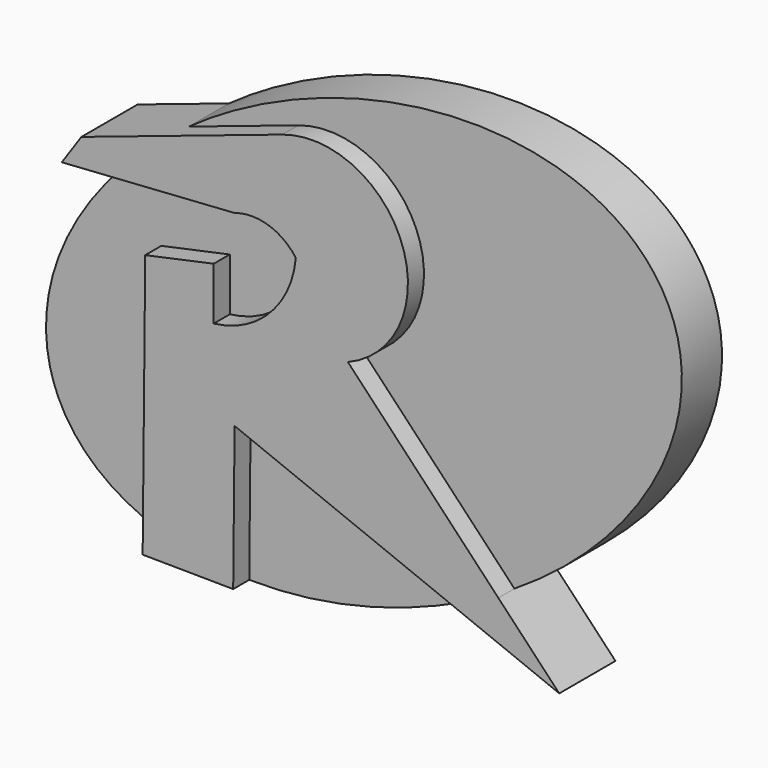
from build123d import *

# Parameters (mm, degrees)
F1_DEPTH = 17.78
F2_DEPTH = 12.7


with BuildPart() as f1:
    # F0 (on Front) → F1 (new body)
    with BuildSketch(Plane.XZ):
        with BuildLine():
            Line((-51.2901654862, 15.3534509714), (-51.9092994403, -48.0677951135))
            add(Edge.make_bspline(
                [(-51.9092994403, -48.0677951135), (-41.6057778166, -51.5776260761), (-29.0291292521, -51.8205253444)],
                knots=[0.5915359524, 0.5915359524, 0.5915359524, 0.9236195546, 0.9236195546, 0.9236195546], degree=2, weights=[1, 0.9862467018, 1]))
            Line((-29.0291292521, -51.8205253444), (-28.6730148599, -15.3417983256))
            Line((-28.6730148599, -15.3417983256), (27.6495488689, -37.8804578513))
            add(Edge.make_bspline(
                [(27.6495488689, -37.8804578513), (33.0317177029, -35.138839342), (38.080437783, -31.9595411631)],
                knots=[1.6434779546, 1.6434779546, 1.6434779546, 1.7856879064, 1.7856879064, 1.7856879064], degree=2, weights=[1, 0.9974731061, 1]))
            Line((38.080437783, -31.9595411631), (0, 8.218081668))
            ThreePointArc((0, 8.218081668), (13.7250963904, 38.9258024925), (-16.5912210941, 53.4950606525))
            Line((-16.5912210941, 53.4950606525), (-44.3439349242, 44.1877468728))
            add(Edge.make_bspline(
                [(-44.3439349242, 44.1877468728), (-53.5267323563, 37.6104182577), (-60.7439466231, 29.953758261)],
                knots=[5.017975378, 5.017975378, 5.017975378, 5.2898153889, 5.2898153889, 5.2898153889], degree=2, weights=[1, 0.990777088, 1]))
            Line((-60.7439466231, 29.953758261), (-28.6857560277, 32.0970378816))
            ThreePointArc((-28.6857560277, 32.0970378816), (-20.1155001777, 32.1703219773), (-13.1799420342, 27.1351765841))
            ThreePointArc((-13.1799420342, 27.1351765841), (-19.7589661895, 12.7367227479), (-33.957734704, 5.7371510193))
            Line((-33.957734704, 5.7371510193), (-33.957734704, 19.0721508116))
            Line((-33.957734704, 19.0721508116), (-51.2901654862, 15.3534509714))
        make_face()
        with BuildLine():
            Line((-72.4121555686, 29.1736694918), (-60.7439466231, 29.953758261))
            add(Edge.make_bspline(
                [(-44.3439349242, 44.1877468728), (-53.5267323563, 37.6104182577), (-60.7439466231, 29.953758261)],
                knots=[5.017975378, 5.017975378, 5.017975378, 5.2898153889, 5.2898153889, 5.2898153889], degree=2, weights=[1, 0.990777088, 1]))
            Line((-44.3439349242, 44.1877468728), (-67.4502924085, 36.4386625588))
            Line((-67.4502924085, 36.4386625588), (-72.4121555686, 29.1736694918))
        make_face()
        with BuildLine():
            add(Edge.make_bspline(
                [(27.6495488689, -37.8804578513), (33.0317177029, -35.138839342), (38.080437783, -31.9595411631)],
                knots=[1.6434779546, 1.6434779546, 1.6434779546, 1.7856879064, 1.7856879064, 1.7856879064], degree=2, weights=[1, 0.9974731061, 1]))
            Line((27.6495488689, -37.8804578513), (53.4950569272, -48.2230819762))
            Line((53.4950569272, -48.2230819762), (38.080437783, -31.9595411631))
        make_face()
        with BuildLine():
            add(Edge.make_bspline(
                [(-51.9092994403, -48.0677951135), (-41.6057778166, -51.5776260761), (-29.0291292521, -51.8205253444)],
                knots=[0.5915359524, 0.5915359524, 0.5915359524, 0.9236195546, 0.9236195546, 0.9236195546], degree=2, weights=[1, 0.9862467018, 1]))
            Line((-51.9092994403, -48.0677951135), (-51.9437507272, -51.596827119))
            Line((-51.9437507272, -51.596827119), (-29.0291292521, -51.8205253444))
        make_face()
    extrude(amount=F1_DEPTH)

    # F0 (on Front) → F2 (join)
    with BuildSketch(Plane.XZ):
        with BuildLine():
            add(Edge.make_bspline(
                [(-60.7439466231, 29.953758261), (-89.3464589617, -0.3903196527), (-77.3740112782, -26.8250592053)],
                knots=[5.2898153889, 5.2898153889, 5.2898153889, 6.2831853072, 6.2831853072, 6.2831853072], degree=2, weights=[1, 0.8791670521, 1]))
            add(Edge.make_bspline(
                [(-77.3740112782, -26.8250592053), (-70.6433306393, -41.6861631668), (-51.9092994403, -48.0677951135)],
                knots=[0, 0, 0, 0.5915359524, 0.5915359524, 0.5915359524], degree=2, weights=[1, 0.9565785789, 1]))
            Line((-51.9092994403, -48.0677951135), (-51.2901654862, 15.3534509714))
            Line((-51.2901654862, 15.3534509714), (-33.957734704, 19.0721508116))
            Line((-33.957734704, 19.0721508116), (-33.957734704, 5.7371510193))
            ThreePointArc((-33.957734704, 5.7371510193), (-19.7589661895, 12.7367227479), (-13.1799420342, 27.1351765841))
            ThreePointArc((-13.1799420342, 27.1351765841), (-20.1155001777, 32.1703219773), (-28.6857560277, 32.0970378816))
            Line((-28.6857560277, 32.0970378816), (-60.7439466231, 29.953758261))
        make_face()
        with BuildLine():
            Line((-28.6730148599, -15.3417983256), (-29.0291292521, -51.8205253444))
            add(Edge.make_bspline(
                [(-29.0291292521, -51.8205253444), (-0.7874770817, -52.3659708668), (27.6495488689, -37.8804578513)],
                knots=[0.9236195546, 0.9236195546, 0.9236195546, 1.6434779546, 1.6434779546, 1.6434779546], degree=2, weights=[1, 0.9359217623, 1]))
            Line((27.6495488689, -37.8804578513), (-28.6730148599, -15.3417983256))
        make_face()
        with BuildLine():
            add(Edge.make_bspline(
                [(38.080437783, -31.9595411631), (112.2540445937, 14.7493294642), (69.0849212114, 54.6308786285), (25.9157978291, 94.5124277927), (-44.3439349242, 44.1877468728)],
                knots=[1.7856879064, 1.7856879064, 1.7856879064, 3.4018316422, 3.4018316422, 5.017975378, 5.017975378, 5.017975378], degree=2, weights=[1, 0.6908936718, 1, 0.6908936718, 1]))
            Line((-44.3439349242, 44.1877468728), (-16.5912210941, 53.4950606525))
            ThreePointArc((-16.5912210941, 53.4950606525), (13.7250963904, 38.9258024925), (0, 8.218081668))
            Line((0, 8.218081668), (38.080437783, -31.9595411631))
        make_face()
    extrude(amount=F2_DEPTH)


solid = f1.part
